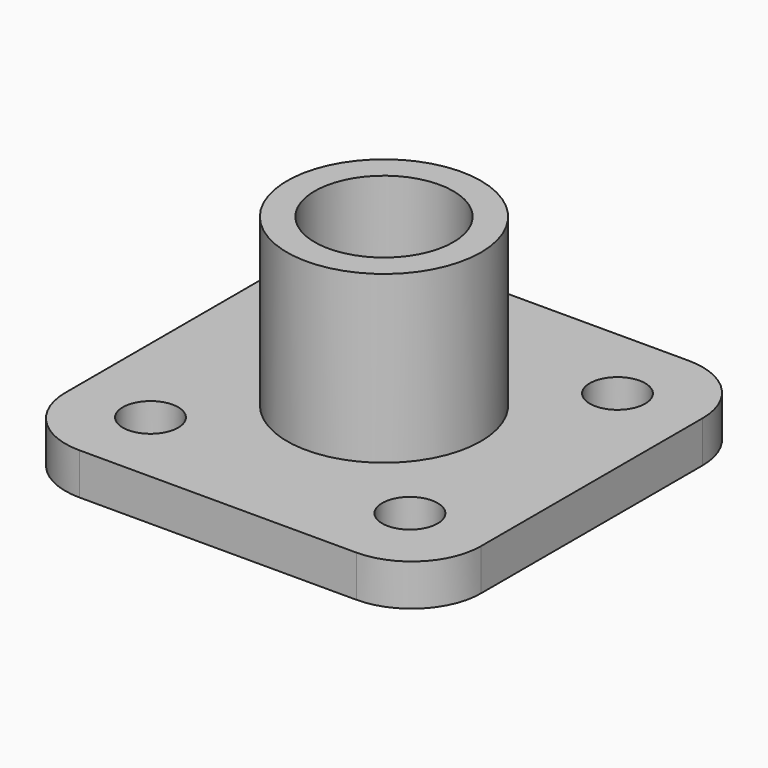
from build123d import *

# Parameters (mm, degrees)
F0_W     = 30
F0_H     = 30
F0_R     = 2
F0_R_2   = 7
F0_R_3   = 5
F1_DEPTH = 3
F2_DEPTH = 15
F3_R     = 5


with BuildPart() as f1:
    # F0 (on Top) → F1 (new body)
    with BuildSketch(Plane.XY):
        Rectangle(F0_W, F0_H)
        with Locations((-9.364547, -9.364547)):
            Circle(F0_R, mode=Mode.SUBTRACT)
        with Locations((9.364547, -9.364547)):
            Circle(F0_R, mode=Mode.SUBTRACT)
        with Locations((-9.364547, 9.364547)):
            Circle(F0_R, mode=Mode.SUBTRACT)
        Circle(F0_R_2, mode=Mode.SUBTRACT)
        with Locations((9.364547, 9.364547)):
            Circle(F0_R, mode=Mode.SUBTRACT)
        Circle(F0_R_2)
        Circle(F0_R_3, mode=Mode.SUBTRACT)
    extrude(amount=F1_DEPTH)

    # F0 (on Top) → F2 (join)
    with BuildSketch(Plane.XY):
        Circle(F0_R_2)
        Circle(F0_R_3, mode=Mode.SUBTRACT)
    extrude(amount=F2_DEPTH)

    # F3
    f3_edges = [f1.edges().sort_by_distance(p)[0] for p in [
        (-15, 15, 1.5),
        (15, 15, 1.5),
        (-15, -15, 1.5),
        (15, -15, 1.5),
    ]]
    fillet(f3_edges, radius=F3_R)


solid = f1.part
